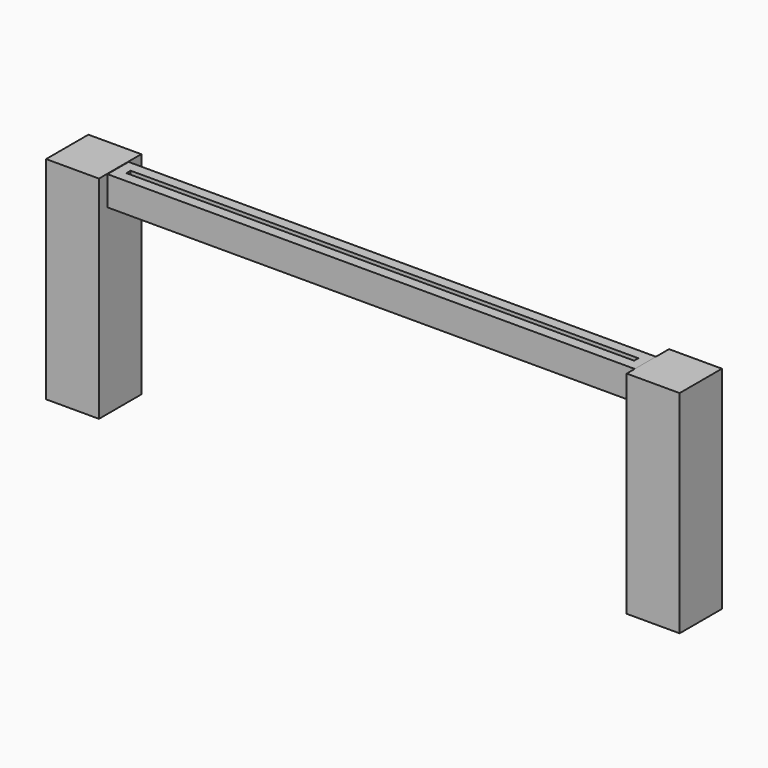
from build123d import *

# Parameters (mm, degrees)
F0_W     = 12.7
F0_H     = 12.7
F1_DEPTH = 50.8
F2_W     = 6.35
F2_H     = 7.024661
F3_DEPTH = 127
F4_T     = -2.54


with BuildPart() as f1:
    # F0 (on Top) → F1 (new body)
    with BuildSketch(Plane.XY):
        with Locations((-69.725993, 0.253999)):
            Rectangle(F0_W, F0_H)
        with Locations((69.725993, 0.253999)):
            Rectangle(F0_W, F0_H)
    extrude(amount=F1_DEPTH)


with BuildPart() as f3:
    # F2 (on face) → F3 (new body)
    with BuildSketch(Plane.YZ.offset(-63.375993)):
        with Locations((-0.381001, 47.200348)):
            Rectangle(F2_W, F2_H)
    extrude(amount=F3_DEPTH)

    # F4
    f4_openings = [f3.faces().sort_by_distance(p)[0] for p in [
        (0.124007, -0.381001, 50.712679),
    ]]
    offset(amount=F4_T, openings=f4_openings)


solid = Compound([f1.part, f3.part])
